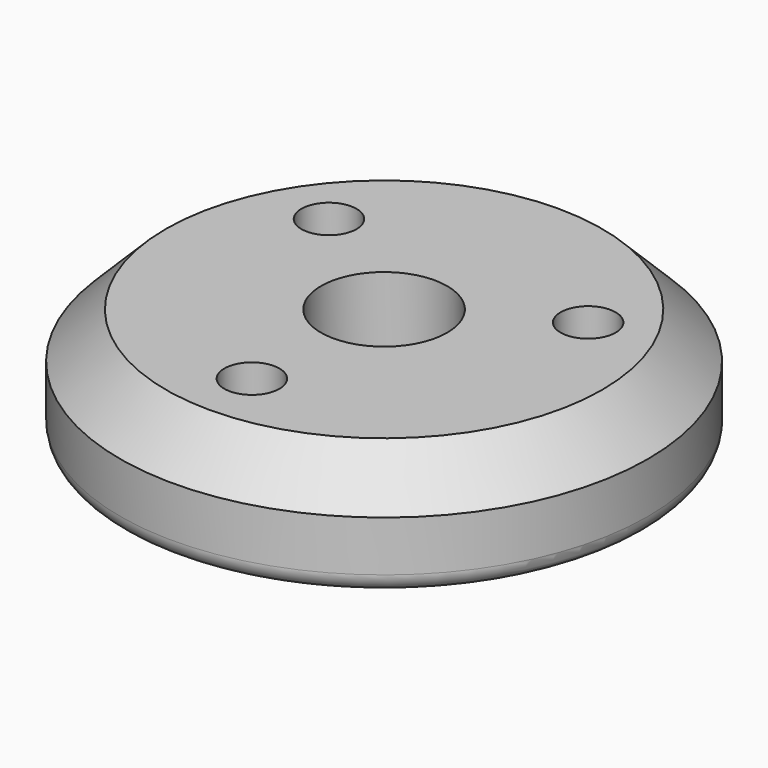
from build123d import *

# Parameters (mm, degrees)
F0_R     = 5.75
F1_DEPTH = 2.5
F2_R     = 1.375
F3_DEPTH = 25.4
F4_R     = 0.6
F5_DEPTH = 25.4
F6_R     = 0.6
F7_DEPTH = 25.4
F8_R     = 0.6
F9_DEPTH = 25.4
F10_SIZE = 1
F11_R    = 0.4


with BuildPart() as f1:
    # F0 (on Top) → F1 (new body)
    with BuildSketch(Plane.XY):
        with Locations((-19.332174, 0)):
            Circle(F0_R)
    extrude(amount=F1_DEPTH)

    # F2 (on face) → F3 (cut)
    with BuildSketch(Plane.XY.offset(2.5)):
        with Locations((-19.332174, 0)):
            Circle(F2_R)
    extrude(amount=-F3_DEPTH, mode=Mode.SUBTRACT)

    # F4 (on face) → F5 (cut)
    with BuildSketch(Plane.XY.offset(2.5)):
        with Locations((-22.144392, 2.014774)):
            Circle(F4_R)
    extrude(amount=-F5_DEPTH, mode=Mode.SUBTRACT)

    # F6 (on face) → F7 (cut)
    with BuildSketch(Plane.XY.offset(2.5)):
        with Locations((-19.493969, -3.397938)):
            Circle(F6_R)
    extrude(amount=-F7_DEPTH, mode=Mode.SUBTRACT)

    # F8 (on face) → F9 (cut)
    with BuildSketch(Plane.XY.offset(2.5)):
        with Locations((-16.320517, 1.792489)):
            Circle(F8_R)
    extrude(amount=-F9_DEPTH, mode=Mode.SUBTRACT)

    # F10
    f10_edges = [f1.edges().sort_by_distance(p)[0] for p in [
        (-25.082174, 0, 2.5),
    ]]
    chamfer(f10_edges, length=F10_SIZE)

    # F11
    f11_edges = [f1.edges().sort_by_distance(p)[0] for p in [
        (-25.082174, 0, 0),
    ]]
    fillet(f11_edges, radius=F11_R)


solid = f1.part
